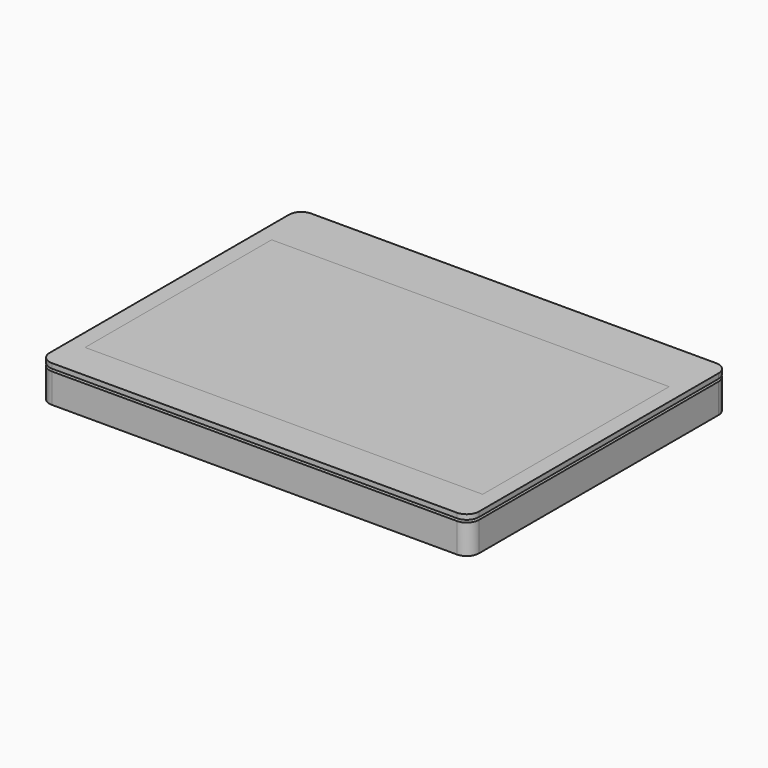
from build123d import *

# Parameters (mm, degrees)
SKETCH_W        = 165
SKETCH_H        = 100
PAD_DEPTH       = 8
SKETCH001_R     = 2
PAD001_DEPTH    = 2
SKETCH002_W     = 165
SKETCH002_H     = 65
PAD002_DEPTH    = 3
SKETCH003_W     = 175
SKETCH003_H     = 132
SKETCH003_W_2   = 167
SKETCH003_H_2   = 102
PAD003_DEPTH    = 5
SKETCH004_W     = 175
SKETCH004_H     = 132
PAD004_DEPTH    = 2
SKETCH005_W     = 175
SKETCH005_H     = 132
SKETCH005_W_2   = 166
SKETCH005_H_2   = 126
PAD005_DEPTH    = 5
FILLET_R        = 5
SKETCH006_R     = 2
POCKET_DEPTH    = 7
SKETCH011_W     = 47
SKETCH011_H     = 7
POCKET002_DEPTH = 6
SKETCH007_W     = 164
SKETCH007_H     = 48
PAD006_DEPTH    = 3.5
SKETCH008_W     = 164
SKETCH008_H     = 124
PAD007_DEPTH    = 1.5
SKETCH009_W     = 164
SKETCH009_H     = 8
PAD008_DEPTH    = 3
SKETCH010_R     = 2
POCKET001_DEPTH = 4.5
SKETCH012_W     = 12
SKETCH012_H     = 63
POCKET003_DEPTH = 5
SKETCH013_R     = 3
POCKET004_DEPTH = 2
SKETCH014_W     = 149
SKETCH014_H     = 3
PAD009_DEPTH    = 2
SKETCH015_W     = 175
SKETCH015_H     = 132
SKETCH015_W_2   = 162
SKETCH015_H_2   = 95
PAD010_DEPTH    = 2
FILLET001_R     = 5


with BuildPart() as display:
    # Sketch → Pad (new body)
    with BuildSketch(Plane.XY):
        with Locations((0, -17.5)):
            Rectangle(SKETCH_W, SKETCH_H)
    extrude(amount=PAD_DEPTH)

    # Sketch001 (on Face5 of Pad) → Pad001 (join)
    with BuildSketch(Plane(origin=(0, 0, 0), x_dir=(1, 0, 0), z_dir=(0, 0, -1))):
        Polygon((-82.5, 76.5), (-82.5, -48.5), (-74.5, -48.5), (-74.5, -39.5), (74.5, -39.5), (74.5, -48.5), (82.5, -48.5), (82.5, 76.5), (74.5, 76.5), (74.5, 67.5), (-74.5, 67.5), (-74.5, 76.5), align=None)
        with Locations((-78.5, 71.5)):
            Circle(SKETCH001_R, mode=Mode.SUBTRACT)
        with Locations((78.5, 71.5)):
            Circle(SKETCH001_R, mode=Mode.SUBTRACT)
        with Locations((-78.5, -43.5)):
            Circle(SKETCH001_R, mode=Mode.SUBTRACT)
        with Locations((78.5, -43.5)):
            Circle(SKETCH001_R, mode=Mode.SUBTRACT)
    extrude(amount=PAD001_DEPTH)

    # Sketch002 (on Face5 of Pad001) → Pad002 (join)
    with BuildSketch(Plane(origin=(0, 0, -2), x_dir=(1, 0, 0), z_dir=(0, 0, -1))):
        with Locations((0, 35)):
            Rectangle(SKETCH002_W, SKETCH002_H)
    extrude(amount=PAD002_DEPTH)


with BuildPart() as frame_front:
    # Sketch003 → Pad003 (new body)
    with BuildSketch(Plane.XY):
        with Locations((0, -14)):
            Rectangle(SKETCH003_W, SKETCH003_H)
        with Locations((0, -16.5)):
            Rectangle(SKETCH003_W_2, SKETCH003_H_2, mode=Mode.SUBTRACT)
    extrude(amount=PAD003_DEPTH)

    # Sketch004 (on Face9 of Pad003) → Pad004 (join)
    with BuildSketch(Plane(origin=(0, 0, 0), x_dir=(1, 0, 0), z_dir=(0, 0, -1))):
        with Locations((0, 14)):
            Rectangle(SKETCH004_W, SKETCH004_H)
        Polygon((-74.5, 67.5), (74.5, 67.5), (74.5, 76.5), (83.5, 76.5), (83.5, -48.5), (74.5, -48.5), (74.5, -39.5), (-74.5, -39.5), (-74.5, -48.5), (-83.5, -48.5), (-83.5, 76.5), (-74.5, 76.5), align=None, mode=Mode.SUBTRACT)
    extrude(amount=PAD004_DEPTH)

    # Sketch005 (on Face1 of Pad004) → Pad005 (join)
    with BuildSketch(Plane(origin=(0, 0, -2), x_dir=(1, 0, 0), z_dir=(0, 0, -1))):
        with Locations((0, 14)):
            Rectangle(SKETCH005_W, SKETCH005_H)
        with Locations((0, 14)):
            Rectangle(SKETCH005_W_2, SKETCH005_H_2, mode=Mode.SUBTRACT)
    extrude(amount=PAD005_DEPTH)

    # Fillet
    fillet_edges = [frame_front.edges().sort_by_distance(p)[0] for p in [
        (87.5, 52, -1),
        (87.5, -80, -1),
        (-87.5, 52, -1),
        (-87.5, -80, -1),
    ]]
    fillet(fillet_edges, radius=FILLET_R)

    # Sketch006 (on Face22 of Fillet) → Pocket (cut)
    with BuildSketch(Plane(origin=(0, 0, -2), x_dir=(1, 0, 0), z_dir=(0, 0, -1))):
        with Locations((-65, 72)):
            Circle(SKETCH006_R)
        with Locations((65, 72)):
            Circle(SKETCH006_R)
        with Locations((-65, -44)):
            Circle(SKETCH006_R)
        with Locations((65, -44)):
            Circle(SKETCH006_R)
        with Locations((-25, 72)):
            Circle(SKETCH006_R)
        with Locations((25, 72)):
            Circle(SKETCH006_R)
    extrude(amount=-POCKET_DEPTH, mode=Mode.SUBTRACT)

    # Sketch011 (on Face2 of Pocket) → Pocket002 (cut)
    with BuildSketch(Plane(origin=(-87.5, 0, 0), x_dir=(0, -1, 0), z_dir=(-1, 0, 0))):
        with Locations((44, -3.5)):
            Rectangle(SKETCH011_W, SKETCH011_H)
    extrude(amount=-POCKET002_DEPTH, mode=Mode.SUBTRACT)


with BuildPart() as frame_back:
    # Sketch007 → Pad006 (new body)
    with BuildSketch(Plane.XY):
        with Locations((0, 24)):
            Rectangle(SKETCH007_W, SKETCH007_H)
    extrude(amount=-PAD006_DEPTH)

    # Sketch008 (on Face6 of Pad006) → Pad007 (join)
    with BuildSketch(Plane(origin=(0, 0, -3.5), x_dir=(1, 0, 0), z_dir=(0, 0, -1))):
        with Locations((0, 14)):
            Rectangle(SKETCH008_W, SKETCH008_H)
    extrude(amount=PAD007_DEPTH)

    # Sketch009 (on Face3 of Pad007) → Pad008 (join)
    with BuildSketch(Plane.XY.offset(-3.5)):
        with Locations((0, -72)):
            Rectangle(SKETCH009_W, SKETCH009_H)
    extrude(amount=PAD008_DEPTH)

    # Sketch010 (on Face7 of Pad008) → Pocket001 (cut, symmetric)
    with BuildSketch(Plane.XY.offset(-0.5)):
        with Locations((-65, -72)):
            Circle(SKETCH010_R)
        with Locations((-25, -72)):
            Circle(SKETCH010_R)
        with Locations((25, -72)):
            Circle(SKETCH010_R)
        with Locations((65, -72)):
            Circle(SKETCH010_R)
        with Locations((-65, 44)):
            Circle(SKETCH010_R)
        with Locations((65, 44)):
            Circle(SKETCH010_R)
    extrude(amount=POCKET001_DEPTH, both=True, mode=Mode.SUBTRACT)

    # Sketch012 (on Face7 of Pocket001) → Pocket003 (cut)
    with BuildSketch(Plane(origin=(0, 0, -5), x_dir=(1, 0, 0), z_dir=(0, 0, -1))):
        with Locations((-76, 36)):
            Rectangle(SKETCH012_W, SKETCH012_H)
    extrude(amount=-POCKET003_DEPTH, mode=Mode.SUBTRACT)

    # Sketch013 (on Face7 of Pocket003) → Pocket004 (cut)
    with BuildSketch(Plane(origin=(0, 0, -5), x_dir=(1, 0, 0), z_dir=(0, 0, -1))):
        with Locations((-65, -44)):
            Circle(SKETCH013_R)
        with Locations((65, -44)):
            Circle(SKETCH013_R)
        with Locations((25, 72)):
            Circle(SKETCH013_R)
        with Locations((65, 72)):
            Circle(SKETCH013_R)
        with Locations((-25, 72)):
            Circle(SKETCH013_R)
        with Locations((-65, 72)):
            Circle(SKETCH013_R)
    extrude(amount=-POCKET004_DEPTH, mode=Mode.SUBTRACT)

    # Sketch014 (on Face9 of Pocket004) → Pad009 (join)
    with BuildSketch(Plane(origin=(0, -68, 0), x_dir=(-1, 0, 0), z_dir=(0, 1, 0))):
        with Locations((-7.5, -2)):
            Rectangle(SKETCH014_W, SKETCH014_H)
    extrude(amount=PAD009_DEPTH)


with BuildPart() as frame_back_1:
    # Body002 placement: moved
    add(frame_back.part.moved(Location((0, 0, -2))))


with BuildPart() as frame_cover:
    # Sketch015 → Pad010 (new body)
    with BuildSketch(Plane.XY):
        with Locations((0, -14)):
            Rectangle(SKETCH015_W, SKETCH015_H)
        with Locations((0, -17.5)):
            Rectangle(SKETCH015_W_2, SKETCH015_H_2, mode=Mode.SUBTRACT)
    extrude(amount=PAD010_DEPTH)

    # Fillet001
    fillet001_edges = [frame_cover.edges().sort_by_distance(p)[0] for p in [
        (87.5, -80, 1),
        (-87.5, -80, 1),
        (87.5, 52, 1),
        (-87.5, 52, 1),
    ]]
    fillet(fillet001_edges, radius=FILLET001_R)


with BuildPart() as frame_cover_1:
    # Body003 placement: moved
    add(frame_cover.part.moved(Location((0, 0, 6))))


solid = Compound([display.part, frame_front.part, frame_back_1.part, frame_cover_1.part])
